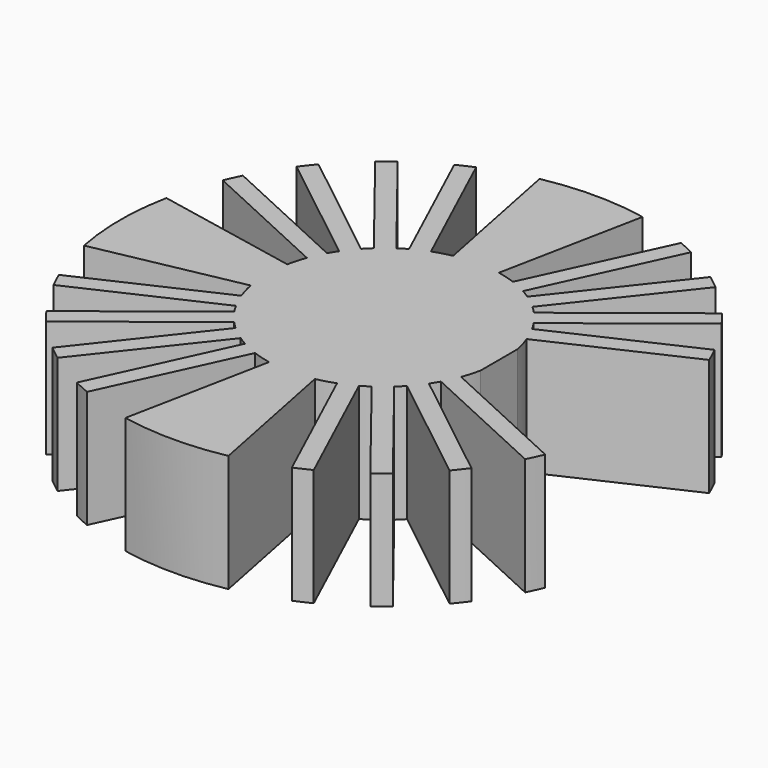
from build123d import *

# Parameters (mm, degrees)
F1_DEPTH = 10
F3_DEPTH = 10.001


with BuildPart() as f1:
    # F0 (on Top) → F1 (new body)
    with BuildSketch(Plane.XY):
        with BuildLine():
            Line((1.950903, 9.807853), (4.389532, 22.067669))
            ThreePointArc((4.389532, 22.067669), (0, 22.5), (-4.389532, 22.067669))
            Line((-4.389532, 22.067669), (-1.950903, 9.807853))
            ThreePointArc((-1.950903, 9.807853), (-2.731096, 9.619829), (-3.493699, 9.369849))
            Line((-3.493699, 9.369849), (-8.733502, 20.735861))
            ThreePointArc((-8.733502, 20.735861), (-9.419844, 20.433221), (-10.095717, 20.107872))
            Line((-10.095717, 20.107872), (-4.855913, 8.741859))
            ThreePointArc((-4.855913, 8.741859), (-5.224986, 8.526402), (-5.584515, 8.295372))
            Line((-5.584515, 8.295372), (-13.332885, 18.124132))
            ThreePointArc((-13.332885, 18.124132), (-13.929614, 17.669631), (-14.510861, 17.195491))
            Line((-14.510861, 17.195491), (-6.762491, 7.366731))
            ThreePointArc((-6.762491, 7.366731), (-7.071068, 7.071068), (-7.366731, 6.762491))
            Line((-7.366731, 6.762491), (-17.195491, 14.510861))
            ThreePointArc((-17.195491, 14.510861), (-17.669631, 13.929614), (-18.124132, 13.332885))
            Line((-18.124132, 13.332885), (-8.295372, 5.584515))
            ThreePointArc((-8.295372, 5.584515), (-8.526402, 5.224986), (-8.741859, 4.855913))
            Line((-8.741859, 4.855913), (-20.107872, 10.095717))
            ThreePointArc((-20.107872, 10.095717), (-20.433221, 9.419844), (-20.735861, 8.733502))
            Line((-20.735861, 8.733502), (-9.369849, 3.493699))
            ThreePointArc((-9.369849, 3.493699), (-9.619829, 2.731096), (-9.807853, 1.950903))
            Line((-9.807853, 1.950903), (-22.067669, 4.389532))
            ThreePointArc((-22.067669, 4.389532), (-22.5, 0), (-22.067669, -4.389532))
            Line((-22.067669, -4.389532), (-9.807853, -1.950903))
            ThreePointArc((-9.807853, -1.950903), (-9.619829, -2.731096), (-9.369849, -3.493699))
            Line((-9.369849, -3.493699), (-20.735861, -8.733502))
            ThreePointArc((-20.735861, -8.733502), (-20.433221, -9.419844), (-20.107872, -10.095717))
            Line((-20.107872, -10.095717), (-8.741859, -4.855913))
            ThreePointArc((-8.741859, -4.855913), (-8.526402, -5.224986), (-8.295372, -5.584515))
            Line((-8.295372, -5.584515), (-18.124132, -13.332885))
            ThreePointArc((-18.124132, -13.332885), (-17.669631, -13.929614), (-17.195491, -14.510861))
            Line((-17.195491, -14.510861), (-7.366731, -6.762491))
            ThreePointArc((-7.366731, -6.762491), (-7.071068, -7.071068), (-6.762491, -7.366731))
            Line((-6.762491, -7.366731), (-14.510861, -17.195491))
            ThreePointArc((-14.510861, -17.195491), (-13.929614, -17.669631), (-13.332885, -18.124132))
            Line((-13.332885, -18.124132), (-5.584515, -8.295372))
            ThreePointArc((-5.584515, -8.295372), (-5.224986, -8.526402), (-4.855913, -8.741859))
            Line((-4.855913, -8.741859), (-10.095717, -20.107872))
            ThreePointArc((-10.095717, -20.107872), (-9.419844, -20.433221), (-8.733502, -20.735861))
            Line((-8.733502, -20.735861), (-3.493699, -9.369849))
            ThreePointArc((-3.493699, -9.369849), (-2.731096, -9.619829), (-1.950903, -9.807853))
            Line((-1.950903, -9.807853), (-4.389532, -22.067669))
            ThreePointArc((-4.389532, -22.067669), (0, -22.5), (4.389532, -22.067669))
            Line((4.389532, -22.067669), (1.950903, -9.807853))
            ThreePointArc((1.950903, -9.807853), (2.731096, -9.619829), (3.493699, -9.369849))
            Line((3.493699, -9.369849), (8.733502, -20.735861))
            ThreePointArc((8.733502, -20.735861), (9.419844, -20.433221), (10.095717, -20.107872))
            Line((10.095717, -20.107872), (4.855913, -8.741859))
            ThreePointArc((4.855913, -8.741859), (5.224986, -8.526402), (5.584515, -8.295372))
            Line((5.584515, -8.295372), (13.332885, -18.124132))
            ThreePointArc((13.332885, -18.124132), (13.929614, -17.669631), (14.510861, -17.195491))
            Line((14.510861, -17.195491), (6.762491, -7.366731))
            ThreePointArc((6.762491, -7.366731), (7.071068, -7.071068), (7.366731, -6.762491))
            Line((7.366731, -6.762491), (17.195491, -14.510861))
            ThreePointArc((17.195491, -14.510861), (17.669631, -13.929614), (18.124132, -13.332885))
            Line((18.124132, -13.332885), (8.295372, -5.584515))
            ThreePointArc((8.295372, -5.584515), (8.526402, -5.224986), (8.741859, -4.855913))
            Line((8.741859, -4.855913), (20.107872, -10.095717))
            ThreePointArc((20.107872, -10.095717), (20.433221, -9.419844), (20.735861, -8.733502))
            Line((20.735861, -8.733502), (9.369849, -3.493699))
            ThreePointArc((9.369849, -3.493699), (9.619829, -2.731096), (9.807853, -1.950903))
            Line((9.807853, -1.950903), (22.067669, -4.389532))
            ThreePointArc((22.067669, -4.389532), (22.5, 0), (22.067669, 4.389532))
            Line((22.067669, 4.389532), (9.807853, 1.950903))
            ThreePointArc((9.807853, 1.950903), (9.619829, 2.731096), (9.369849, 3.493699))
            Line((9.369849, 3.493699), (20.735861, 8.733502))
            ThreePointArc((20.735861, 8.733502), (20.433221, 9.419844), (20.107872, 10.095717))
            Line((20.107872, 10.095717), (8.741859, 4.855913))
            ThreePointArc((8.741859, 4.855913), (8.526402, 5.224986), (8.295372, 5.584515))
            Line((8.295372, 5.584515), (18.124132, 13.332885))
            ThreePointArc((18.124132, 13.332885), (17.669631, 13.929614), (17.195491, 14.510861))
            Line((17.195491, 14.510861), (7.366731, 6.762491))
            ThreePointArc((7.366731, 6.762491), (7.071068, 7.071068), (6.762491, 7.366731))
            Line((6.762491, 7.366731), (14.510861, 17.195491))
            ThreePointArc((14.510861, 17.195491), (13.929614, 17.669631), (13.332885, 18.124132))
            Line((13.332885, 18.124132), (5.584515, 8.295372))
            ThreePointArc((5.584515, 8.295372), (5.224986, 8.526402), (4.855913, 8.741859))
            Line((4.855913, 8.741859), (10.095717, 20.107872))
            ThreePointArc((10.095717, 20.107872), (9.419844, 20.433221), (8.733502, 20.735861))
            Line((8.733502, 20.735861), (3.493699, 9.369849))
            ThreePointArc((3.493699, 9.369849), (2.731096, 9.619829), (1.950903, 9.807853))
        make_face()
    extrude(amount=F1_DEPTH)

    # F2 (on face) → F3 (cut, through all)
    with BuildSketch(Plane.XY.offset(10)):
        with BuildLine():
            Line((22.067669, 4.389532), (9.807853, 1.950903))
            Line((9.807853, 1.950903), (9.807853, -1.950903))
            Line((9.807853, -1.950903), (22.067669, -4.389532))
            ThreePointArc((22.067669, -4.389532), (22.5, 0), (22.067669, 4.389532))
        make_face()
    extrude(amount=-F3_DEPTH, mode=Mode.SUBTRACT)


solid = f1.part
